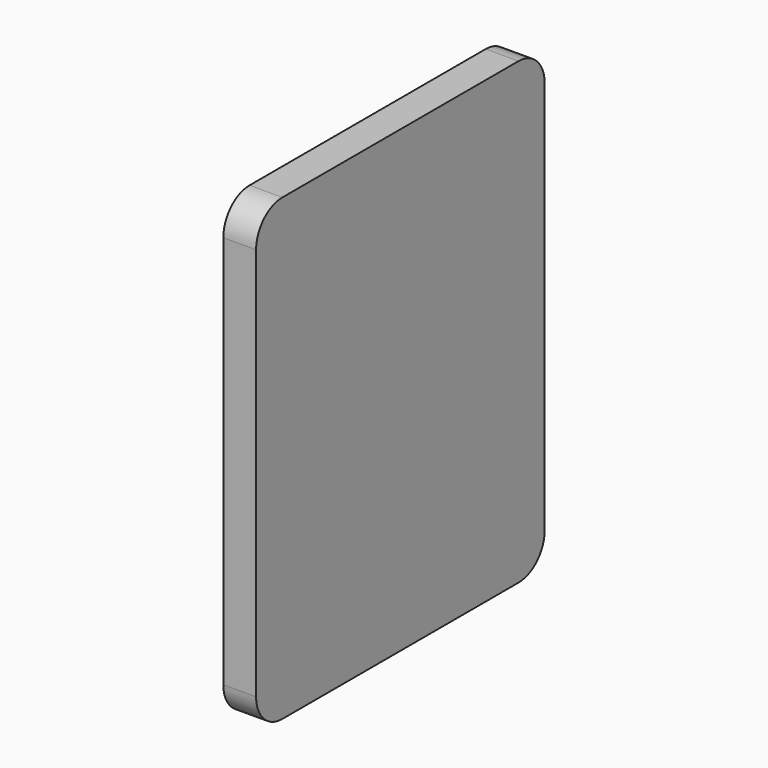
from build123d import *

# Parameters (mm, degrees)
F1_DEPTH = 6.35
F4_DEPTH = 6.35


with BuildPart() as f1:
    # F0 (on Right) → F1 (new body)
    with BuildSketch(Plane.YZ):
        with BuildLine():
            ThreePointArc((41.275, 38.1), (38.4851920908, 44.8351920908), (31.75, 47.625))
            Line((31.75, 47.625), (-31.75, 47.625))
            ThreePointArc((-31.75, 47.625), (-38.4851920908, 44.8351920908), (-41.275, 38.1))
            Line((-41.275, 38.1), (-41.275, -38.1))
            ThreePointArc((-41.275, -38.1), (-38.4851920908, -44.8351920908), (-31.75, -47.625))
            Line((-31.75, -47.625), (31.75, -47.625))
            ThreePointArc((31.75, -47.625), (38.4851920908, -44.8351920908), (41.275, -38.1))
            Line((41.275, -38.1), (41.275, 38.1))
        make_face()
    extrude(amount=F1_DEPTH)


with BuildPart() as f4:
    # F3 (on Right) → F4 (new body)
    with BuildSketch(Plane.YZ):
        with BuildLine():
            ThreePointArc((34.925, 38.1), (33.0651280605, 42.5901280605), (28.575, 44.45))
            Line((28.575, 44.45), (-28.575, 44.45))
            ThreePointArc((-28.575, 44.45), (-33.0651280605, 42.5901280605), (-34.925, 38.1))
            Line((-34.925, 38.1), (-34.925, -38.1))
            ThreePointArc((-34.925, -38.1), (-33.0651280605, -42.5901280605), (-28.575, -44.45))
            Line((-28.575, -44.45), (28.575, -44.45))
            ThreePointArc((28.575, -44.45), (33.0651280605, -42.5901280605), (34.925, -38.1))
            Line((34.925, -38.1), (34.925, 38.1))
        make_face()
    extrude(amount=F4_DEPTH)


solid = f4.part
